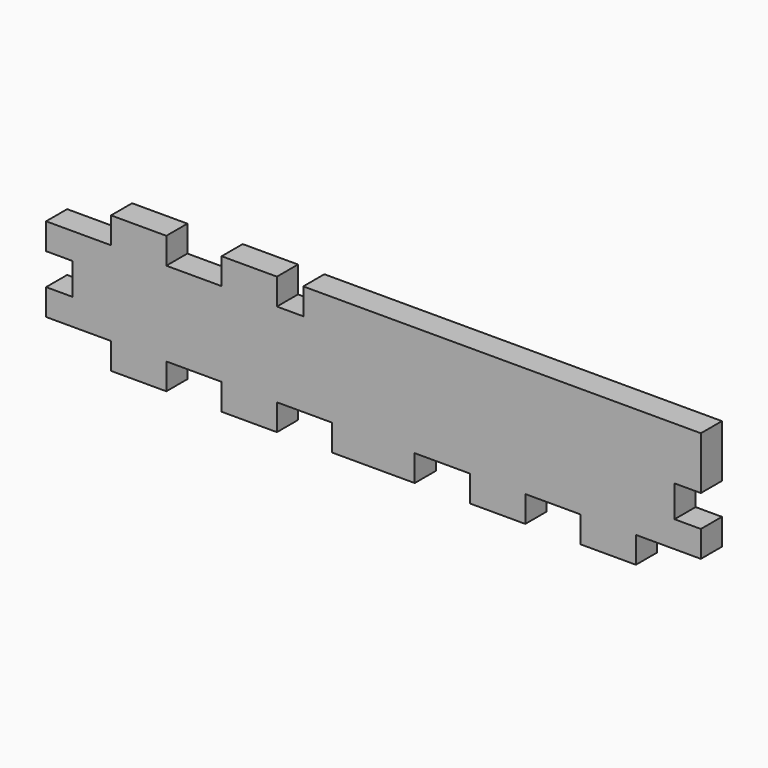
from build123d import *

# Parameters (mm, degrees)
F1_DEPTH = 3


with BuildPart() as f1:
    # F0 (on Front) → F1 (new body)
    with BuildSketch(Plane.XZ):
        Polygon((7.4, -3), (0, -3), (0, -6), (3, -6), (3, -9.6), (0, -9.6), (0, -12.6), (7.4, -12.6), (7.4, -15.6), (13.7, -15.6), (13.7, -12.6), (20, -12.6), (20, -15.6), (26.3, -15.6), (26.3, -12.6), (32.6, -12.6), (32.6, -15.6), (42, -15.6), (42, -12.6), (48.3, -12.6), (48.3, -15.6), (54.6, -15.6), (54.6, -12.6), (60.9, -12.6), (60.9, -15.6), (67.2, -15.6), (67.2, -12.6), (74.6, -12.6), (74.6, -9.6), (71.6, -9.6), (71.6, -6), (74.6, -6), (74.6, 0), (29.3, 0), (29.3, -3), (26.3, -3), (26.3, 0), (20, 0), (20, -3), (13.7, -3), (13.7, 0), (7.4, 0), align=None)
    extrude(amount=-F1_DEPTH)


solid = f1.part
